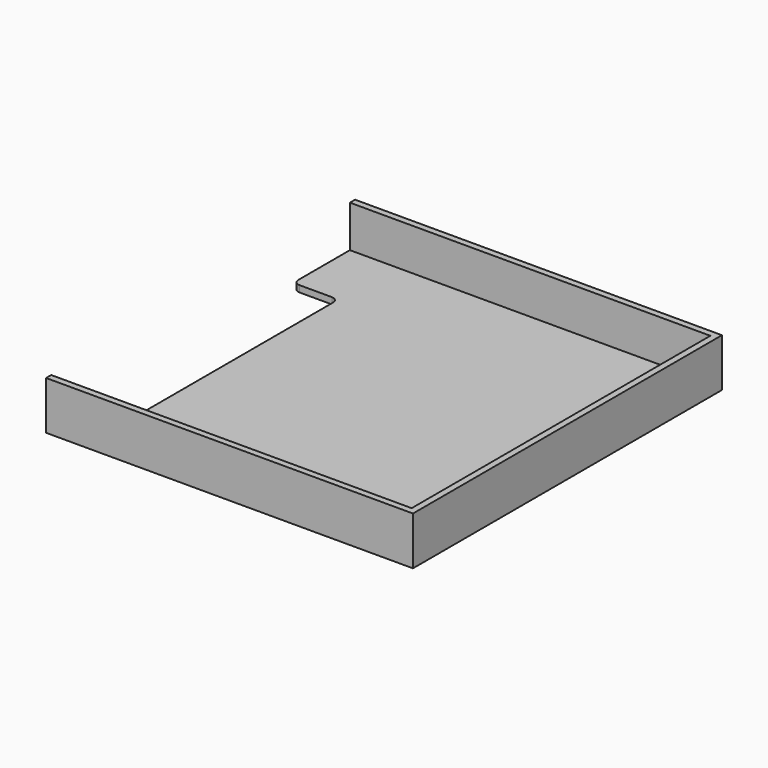
from build123d import *

# Parameters (mm, degrees)
BOX070_W     = 1.4
BOX070_H     = 8.6
BOX070_DEPTH = 0.2
FILLET014_R  = 0.2
BOX069_W     = 11.2
BOX069_H     = 11.6
BOX069_DEPTH = 1.3
BOX068_W     = 11.4
BOX068_H     = 12
BOX068_DEPTH = 1.5
FILLET015_R  = 0.2


with BuildPart() as fillet017:
    # Box070 → Box070 (new body)
    with BuildSketch(Plane(origin=(0, 1, 0), x_dir=(1, 0, 0), z_dir=(0, 0, 1))):
        with Locations((0.7, 4.3)):
            Rectangle(BOX070_W, BOX070_H)
    extrude(amount=BOX070_DEPTH)

    # Fillet014
    fillet014_edges = [fillet017.edges().sort_by_distance(p)[0] for p in [
        (1.4, 1, 0.1),
        (1.4, 9.6, 0.1),
    ]]
    fillet(fillet014_edges, radius=FILLET014_R)


with BuildPart() as fusion052:
    # Box069 → Box069 (new body)
    with BuildSketch(Plane(origin=(0, 0.2, 0.2), x_dir=(1, 0, 0), z_dir=(0, 0, 1))):
        with Locations((5.6, 5.8)):
            Rectangle(BOX069_W, BOX069_H)
    extrude(amount=BOX069_DEPTH)

    # Fusion052: union Fillet017
    add(fillet017.part)


with BuildPart() as sd_card_slot:
    # Box068 → Box068 (new body)
    with BuildSketch(Plane.XY):
        with Locations((5.7, 6)):
            Rectangle(BOX068_W, BOX068_H)
    extrude(amount=BOX068_DEPTH)

    # Cut017: cut Fusion052
    add(fusion052.part, mode=Mode.SUBTRACT)

    # Fillet015
    fillet015_edges = [sd_card_slot.edges().sort_by_distance(p)[0] for p in [
        (0, 1, 0.1),
        (0, 9.6, 0.1),
    ]]
    fillet(fillet015_edges, radius=FILLET015_R)


with BuildPart() as sd_card_slot_1:
    # Fillet015 placement: moved
    add(sd_card_slot.part.moved(Location((1.7, 22, -1.5))))


solid = sd_card_slot_1.part
